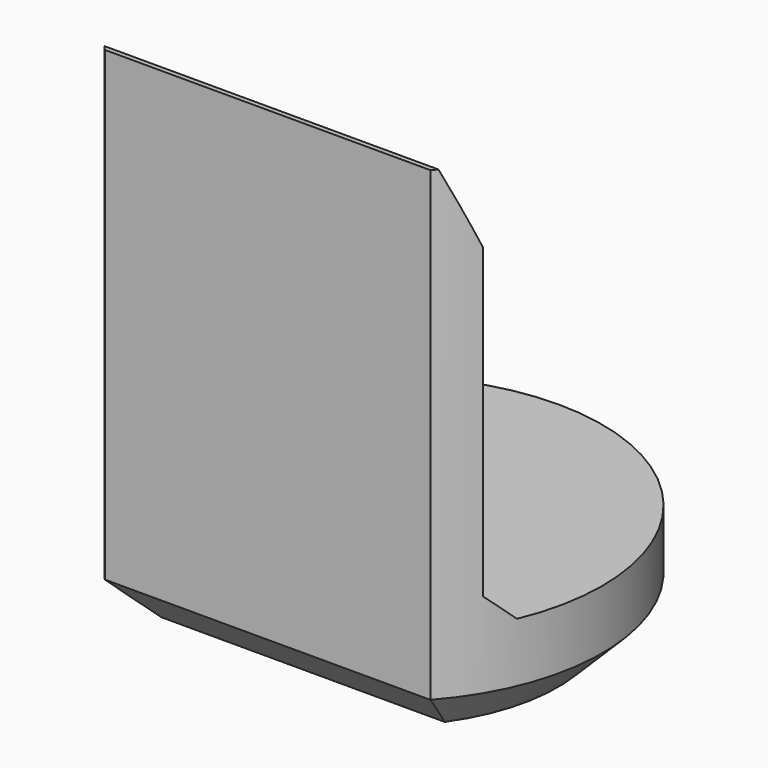
from build123d import *

# Parameters (mm, degrees)
PAD007_DEPTH         = 6.9
POCKET005_DEPTH      = 2.951
POCKET005_DEPTH_BACK = 2.951
CHAMFER008_SIZE      = 0.6


with BuildPart() as part:
    # Sketch018 → Pad007 (new body)
    with BuildSketch(Plane.XY):
        with BuildLine():
            ThreePointArc((2.2, -1.9653244007), (0, 2.95), (-2.2, -1.9653244007))
            Line((-2.2, -1.9653244007), (2.2, -1.9653244007))
        make_face()
    extrude(amount=PAD007_DEPTH)

    # Sketch019 → Pocket005 (cut, two sides)
    with BuildSketch(Plane.YZ) as pocket005_sk:
        Polygon((-1.9, 6.9), (-1.5, 5.9), (-1.5, 1.75), (-1.15, 1.4), (5, 1.4), (5, 6.9), align=None)
    extrude(amount=-POCKET005_DEPTH, mode=Mode.SUBTRACT)
    extrude(pocket005_sk.sketch, amount=POCKET005_DEPTH_BACK, mode=Mode.SUBTRACT)

    # Chamfer008
    chamfer008_edges = [part.edges().sort_by_distance(p)[0] for p in [
        (0, 2.95, 0),
        (0, -1.965324, 0),
    ]]
    chamfer(chamfer008_edges, length=CHAMFER008_SIZE)


with BuildPart() as part_1:
    # Body059 placement: moved
    add(part.part.moved(Location((0, 54, 0))))


solid = part_1.part
